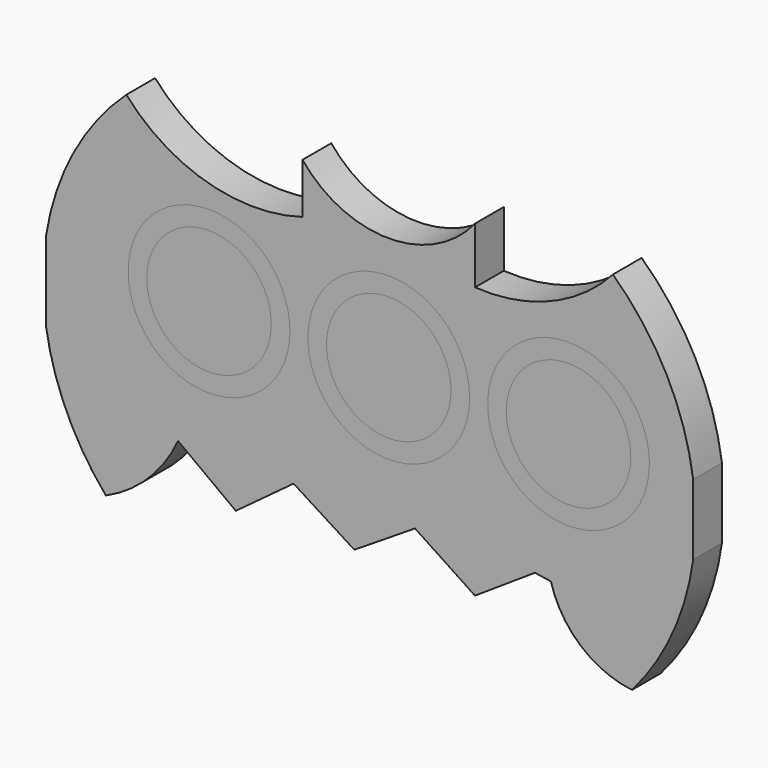
from build123d import *

# Parameters (mm, degrees)
F4_DEPTH = 6.35
F0_R     = 14.2875
F0_R_2   = 10.9982


with BuildPart() as f4:
    # F1 (on Front) → F4 (new body)
    with BuildSketch(Plane.XZ):
        with BuildLine():
            ThreePointArc((-15.24, 18.468124792), (-32.0920439446, 18.3953054193), (-46.3600941002, 27.3629936683))
            ThreePointArc((-46.3600941002, 27.3629936683), (-55.6867944507, 15.3090831277), (-60.5332941002, 0.8593239638))
            Line((-60.5332941002, 0.8593239638), (-60.5332941002, -13.3615132382))
            ThreePointArc((-60.5332941002, -13.3615132382), (-56.8453351864, -25.488578792), (-49.9694533646, -36.1370063317))
            ThreePointArc((-49.9694533646, -36.1370063317), (-42.445018967, -30.9814596408), (-37.2270291144, -23.5001925967))
            Line((-37.2270291144, -23.5001925967), (-27.0194755375, -31.0563721852))
            Line((-27.0194755375, -31.0563721852), (-16.8119219606, -23.5001925967))
            Line((-16.8119219606, -23.5001925967), (-6.0895126072, -30.3060678276))
            Line((-6.0895126072, -30.3060678276), (4.6328967462, -23.5001925967))
            Line((4.6328967462, -23.5001925967), (15.2278391087, -30.5028489737))
            Line((15.2278391087, -30.5028489737), (25.8227814712, -23.5001925967))
            Line((25.8227814712, -23.5001925967), (28.6411562365, -23.9288944679))
            ThreePointArc((28.6411562365, -23.9288944679), (33.9241096898, -32.2424519093), (42.9716110229, -36.1370063317))
            ThreePointArc((42.9716110229, -36.1370063317), (50.100953644, -25.0419060518), (53.7667058998, -12.3734003454))
            Line((53.7667058998, -12.3734003454), (53.7667058998, 0.1087275566))
            ThreePointArc((53.7667058998, 0.1087275566), (49.0376351211, 14.9618607191), (39.5935058998, 27.3629936683))
            ThreePointArc((39.5935058998, 27.3629936683), (28.5535750131, 19.6113623022), (15.24, 17.4395927038))
            Line((15.24, 17.4395927038), (15.24, 27.3629936683))
            ThreePointArc((15.24, 27.3629936683), (0, 20.0983758526), (-15.24, 27.3629936683))
            Line((-15.24, 27.3629936683), (-15.24, 18.468124792))
        make_face()
    extrude(amount=F4_DEPTH)


with BuildPart() as f4b:
    # F0 (on Front) → F4, piece 2 (new body)
    with BuildSketch(Plane.XZ):
        with Locations((-31.75, 0)):
            Circle(F0_R)
        with Locations((-31.75, 0)):
            Circle(F0_R_2, mode=Mode.SUBTRACT)
    extrude(amount=F4_DEPTH)


with BuildPart() as f4c:
    # F0 (on Front) → F4, piece 3 (new body)
    with BuildSketch(Plane.XZ):
        Circle(F0_R)
        Circle(F0_R_2, mode=Mode.SUBTRACT)
    extrude(amount=F4_DEPTH)


with BuildPart() as f4d:
    # F0 (on Front) → F4, piece 4 (new body)
    with BuildSketch(Plane.XZ):
        with Locations((31.75, 0)):
            Circle(F0_R)
        with Locations((31.75, 0)):
            Circle(F0_R_2, mode=Mode.SUBTRACT)
    extrude(amount=F4_DEPTH)


solid = Compound([f4.part, f4b.part, f4c.part, f4d.part])
